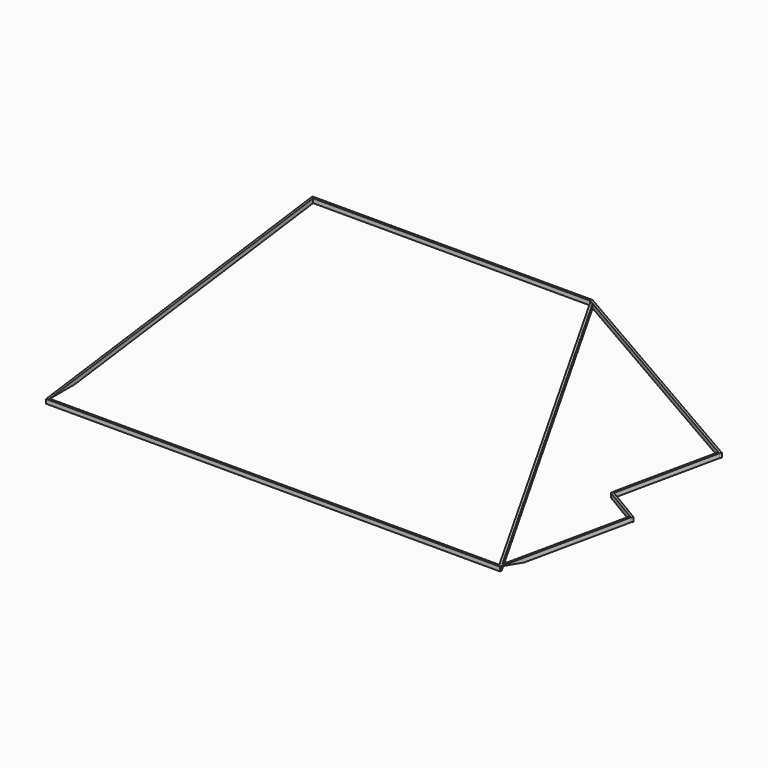
from build123d import *

# Parameters (mm, degrees)
F1_DEPTH       = 50.8
F2_DEPTH       = 50.8
F4_DEPTH       = 25.4
F6_DEPTH       = 25.4
F7_DEPTH       = 508
F7_DEPTH_BACK  = 25.4
F9_DEPTH       = 25.4
F10_W          = 5397.9911712282
F10_H          = 25.4
F11_DEPTH      = 50.8
F14_DEPTH      = 12.7
F14_DEPTH_BACK = 12.7


with BuildPart() as f1:
    # F0 (on Top) → F1 (new body)
    with BuildSketch(Plane.XY):
        Polygon((3327.4, 0), (0, 0), (0, -25.4), (3320.5940905122, -25.4), align=None)
    extrude(amount=-F1_DEPTH)


with BuildPart() as f2:
    # F0 (on Top) → F2 (new body)
    with BuildSketch(Plane.XY):
        Polygon((6187.0158832962, -1651), (3327.4, 0), (3320.5940905122, -25.4), (6173.9818464705, -1672.8041890049), align=None)
    extrude(amount=-F2_DEPTH)


with BuildPart() as f4:
    # F3 (on Right) → F4 (new body)
    with BuildSketch(Plane.YZ):
        Polygon((-25.4, -50.8), (-25.4, 0), (-3962.4, -508), (-3565.4361099546, -508), (-25.4, -51.2211471026), align=None)
    extrude(amount=F4_DEPTH)


with BuildPart() as f6:
    # F5 (on face) → F6 (new body)
    with BuildSketch(Plane(origin=(5285.3087772257, -3159.43460324, 0), x_dir=(0.5130918999, 0.8583336777, 0), z_dir=(0.8583336777, -0.5130918999, 0))):
        Polygon((1731.9959043052, -50.8), (1731.9959043052, 0), (690.598832761, -223.9566371144), (690.598832761, -229.4190094775), (690.598832761, -275.9180655718), (1731.9959043052, -51.9614284574), align=None)
    extrude(amount=-F6_DEPTH)


with BuildPart() as f7:
    # F5 (on face) → F7 (new body, two sides)
    with BuildSketch(Plane(origin=(5285.3087772257, -3159.43460324, 0), x_dir=(0.5130918999, 0.8583336777, 0), z_dir=(0.8583336777, -0.5130918999, 0))) as f7_sk:
        Polygon((690.598832761, -275.9180655718), (690.598832761, -229.4190094775), (665.198832761, -229.4190094775), (665.198832761, -280.2190094775), (690.598832761, -280.2190094775), align=None)
    extrude(amount=F7_DEPTH)
    extrude(f7_sk.sketch, amount=-F7_DEPTH_BACK)


with BuildPart() as f9:
    # F8 (on face) → F9 (new body)
    with BuildSketch(Plane(origin=(5721.3422854773, -3420.0852884144, 0), x_dir=(0.5130918999, 0.8583336777, 0), z_dir=(0.8583336777, -0.5130918999, 0))):
        Polygon((665.198832761, -281.380437935), (665.198832761, -229.4190094775), (-630.201167239, -508), (-388.5808244528, -508), align=None)
    extrude(amount=-F9_DEPTH)


with BuildPart() as f11:
    # F10 (on face) → F11 (new body)
    with BuildSketch(Plane(origin=(0, 0, -508), x_dir=(1, 0, 0), z_dir=(0, 0, -1))):
        with Locations((2698.9955856141, 3949.7)):
            Rectangle(F10_W, F10_H)
    extrude(amount=F11_DEPTH)


with BuildPart() as f14:
    # F13 (on 3pt) → F14 (new body, two sides)
    with BuildSketch(Plane(origin=(2613.6843455731, 1365.8065138101, 0), x_dir=(-0.4631376686, 0.8862863532, 0), z_dir=(0.8862863532, 0.4631376686, 0))) as f14_sk:
        Polygon((-5983.1751832259, -504.7435897436), (-5983.1751832259, -555.8704766939), (-1588.4343132242, -56.5116486151), (-1588.4343132242, -5.3847616647), align=None)
    extrude(amount=F14_DEPTH)
    extrude(f14_sk.sketch, amount=-F14_DEPTH_BACK)


solid = Compound([f1.part, f2.part, f4.part, f6.part, f7.part, f9.part, f11.part, f14.part])
